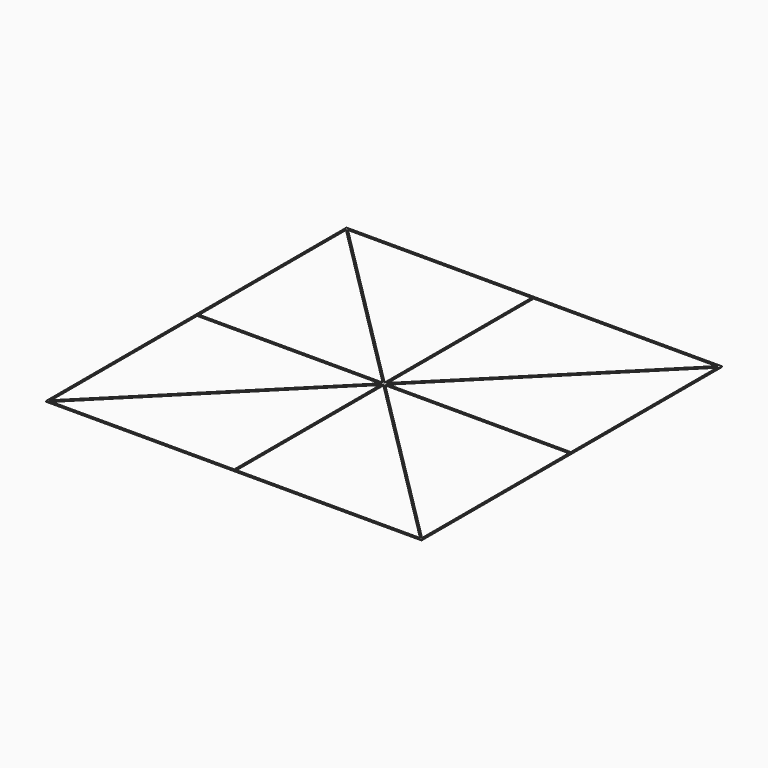
from build123d import *

# Parameters (mm, degrees)
F1_W     = 127
F1_H     = 127
F2_DEPTH = 0.254


with BuildPart() as f2:
    # F1 (on Top) → F2 (new body)
    with BuildSketch(Plane.XY):
        Rectangle(F1_W, F1_H)
        Polygon((-0.254, -62.992), (-62.63279, -62.992), (-0.254, -0.61321), align=None, mode=Mode.SUBTRACT)
        Polygon((-0.61321, -0.254), (-62.992, -62.63279), (-62.992, -0.254), align=None, mode=Mode.SUBTRACT)
        Polygon((62.63279, -62.992), (0.254, -62.992), (0.254, -0.61321), align=None, mode=Mode.SUBTRACT)
        Polygon((62.992, -0.254), (62.992, -62.63279), (0.61321, -0.254), align=None, mode=Mode.SUBTRACT)
        Polygon((-62.992, 0.254), (-62.992, 62.63279), (-0.61321, 0.254), align=None, mode=Mode.SUBTRACT)
        Polygon((-0.254, 0.61321), (-62.63279, 62.992), (-0.254, 62.992), align=None, mode=Mode.SUBTRACT)
        Polygon((0.61321, 0.254), (62.992, 62.63279), (62.992, 0.254), align=None, mode=Mode.SUBTRACT)
        Polygon((0.254, 0.61321), (0.254, 62.992), (62.63279, 62.992), align=None, mode=Mode.SUBTRACT)
    extrude(amount=F2_DEPTH)


solid = f2.part
